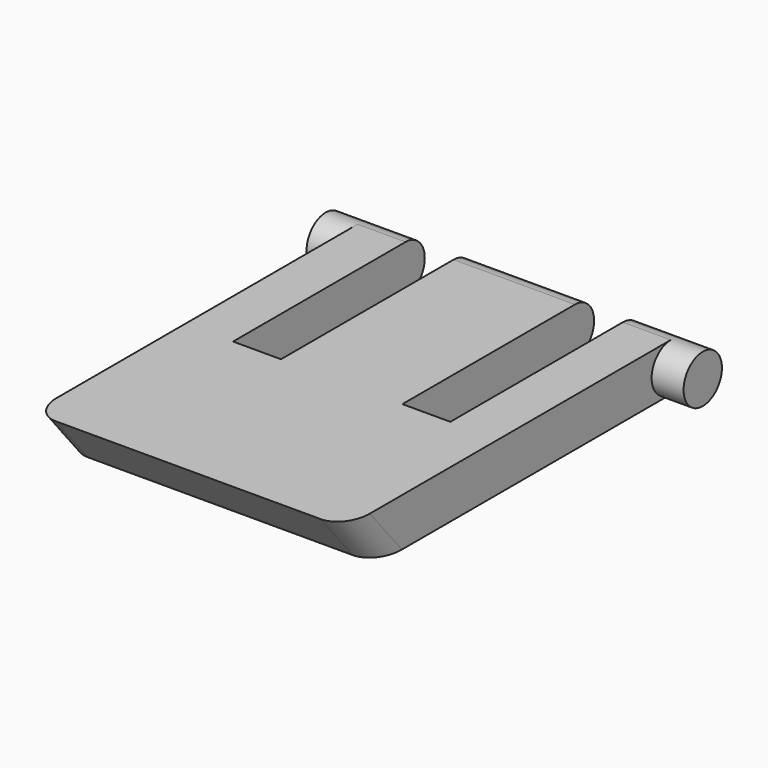
from build123d import *

# Parameters (mm, degrees)
F1_DEPTH = 3
F2_R     = 1.5
F3_DEPTH = 2
F6_DEPTH = 25
F8_DEPTH = 25
F9_R     = 1.5


with BuildPart() as f1:
    # F0 (on Top) → F1 (new body)
    with BuildSketch(Plane.XY):
        Polygon((-9.8, 27), (-9.8, 0), (9.8, 0), (9.8, 27), (6.8, 27), (6.8, 12), (3.8, 12), (3.8, 27), (-3.8, 27), (-3.8, 12), (-6.8, 12), (-6.8, 27), align=None)
    extrude(amount=F1_DEPTH)

    # F2 (on face) → F3 (join)
    with BuildSketch(Plane.YZ.offset(9.8)):
        with Locations((25.5, 1.5)):
            Circle(F2_R)
    extrude(amount=F3_DEPTH)

    # F5: F1 across plane


with BuildPart() as f1_1:
    add(f1.part)
    add(f1.part.mirror(Plane(origin=(0, 12.8316278075, 1.5), x_dir=(0, 1, 0), z_dir=(1, 0, 0))))

    # F6 (cut): faces of the model
    f6_faces = [f1_1.faces().sort_by_distance(p)[0] for p in [
        (-9.8, 26.6649480916, 0.3350519084),
        (-9.8, 26.6649480916, 2.6649480916),
    ]]
    extrude(f6_faces, amount=-F6_DEPTH, mode=Mode.SUBTRACT)

    # F7 (on face) → F8 (cut)
    with BuildSketch(Plane.YZ.offset(9.8)):
        Polygon((0, 3), (0, 0), (2.5, 0), align=None)
    extrude(amount=-F8_DEPTH, mode=Mode.SUBTRACT)

    # F9
    f9_edges = [f1_1.edges().sort_by_distance(p)[0] for p in [
        (-9.8, 1.25, 1.5),
        (9.8, 1.25, 1.5),
    ]]
    fillet(f9_edges, radius=F9_R)


solid = f1_1.part
